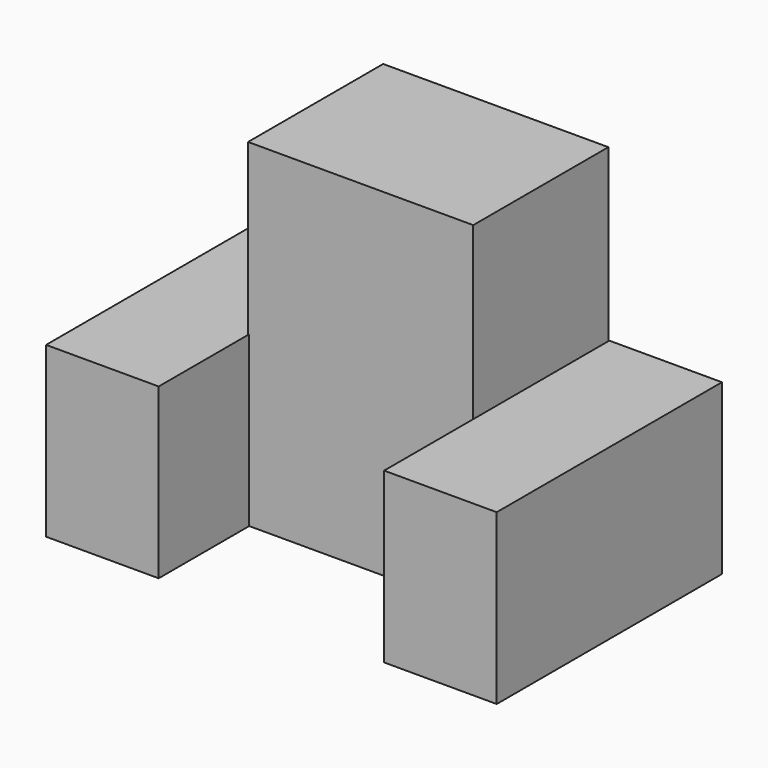
from build123d import *

# Parameters (mm, degrees)
F0_W     = 50.8
F0_H     = 76.2
F1_DEPTH = 127
F2_DEPTH = 127
F3_W     = 101.6
F3_H     = 152.4
F4_DEPTH = 76.2


with BuildPart() as f1:
    # F0 (on Front) → F1 (new body)
    with BuildSketch(Plane.XZ):
        with Locations((-82.724614, -51.168678)):
            Rectangle(F0_W, F0_H)
    extrude(amount=F1_DEPTH)

    # F0 (on Front) → F2 (join)
    with BuildSketch(Plane.XZ):
        with Locations((-82.724614, -51.168678)):
            Rectangle(F0_W, F0_H)
        with Locations((69.791613, -51.508864)):
            Rectangle(F0_W, F0_H)
    extrude(amount=F2_DEPTH)


with BuildPart() as f4:
    # F3 (on Front) → F4 (new body)
    with BuildSketch(Plane.XZ):
        with Locations((-6.845852, -12.903737)):
            Rectangle(F3_W, F3_H)
    extrude(amount=F4_DEPTH)


solid = Compound([f1.part, f4.part])
